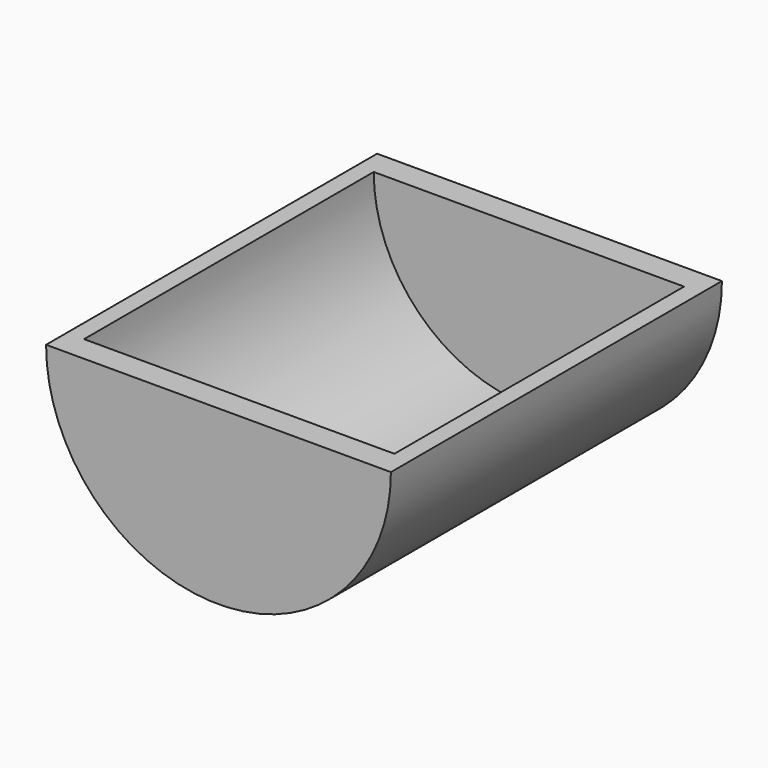
from build123d import *

# Parameters (mm, degrees)
F1_DEPTH = 38.1
F2_W     = 28.575
F2_H     = 66.675


with BuildPart() as f1:
    # F0 (on Front) → F1 (new body, symmetric)
    with BuildSketch(Plane.XZ):
        with BuildLine():
            Line((0, 0), (-31.75, 0))
            ThreePointArc((-31.75, 0), (0, -31.75), (31.75, 0))
            Line((31.75, 0), (0, 0))
        make_face()
    extrude(amount=F1_DEPTH, both=True)

    # F2 (on face) → F3 (revolve, cut)
    with BuildSketch(Plane.XY):
        with Locations((14.2875, 0.0127)):
            Rectangle(F2_W, F2_H)
    revolve(axis=Axis((0, -46.708016, 0), (0, -1, 0)), mode=Mode.SUBTRACT)


solid = f1.part
